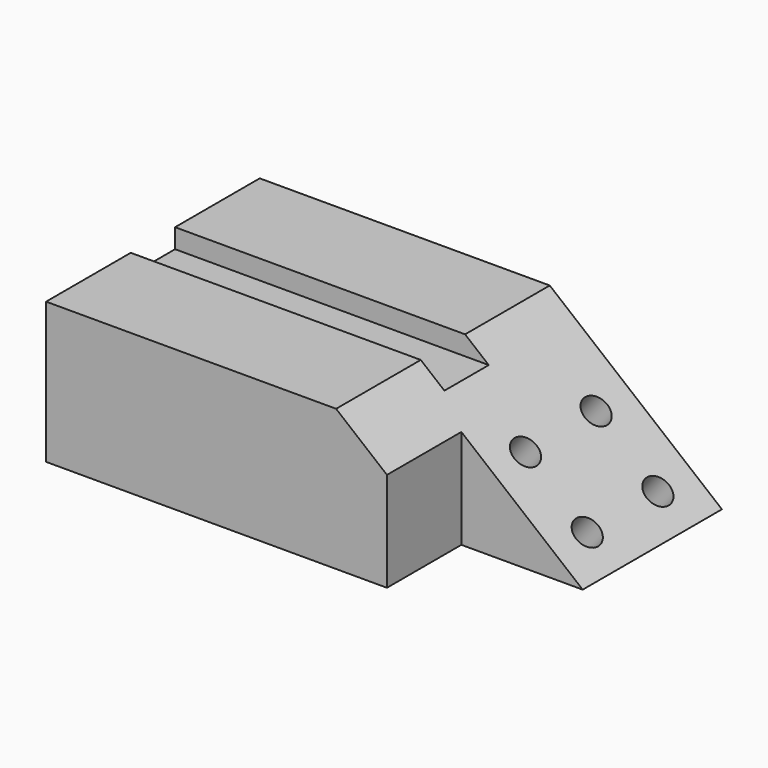
from build123d import *

# Parameters (mm, degrees)
F0_W     = 151.4763683081
F0_H     = 87.5145420432
F1_DEPTH = 46.228
F3_DEPTH = 102.87
F5_DEPTH = 30.48
F6_W     = 9.5930825919
F6_H     = 18.165897578
F6_W_2   = 95.0514208525
F7_DEPTH = 6.35
F8_R     = 4.5954023878
F9_DEPTH = 52.324


with BuildPart() as f1:
    # F0 (on Top) → F1 (new body)
    with BuildSketch(Plane.XY):
        Rectangle(F0_W, F0_H)
    extrude(amount=F1_DEPTH)

    # F2 (on face) → F3 (cut)
    with BuildSketch(Plane.XZ.offset(43.7572710216)):
        Polygon((75.738184154, 46.228), (19.3132366985, 46.228), (75.738184154, 0), align=None)
    extrude(amount=-F3_DEPTH, mode=Mode.SUBTRACT)

    # F4 (on face) → F5 (cut)
    with BuildSketch(Plane.XZ.offset(43.7572710216)):
        Polygon((75.738184154, 0), (35.9745252221, 32.5776896214), (35.9745252221, 0), align=None)
    extrude(amount=-F5_DEPTH, mode=Mode.SUBTRACT)

    # F6 (on face) → F7 (cut)
    with BuildSketch(Plane.XY.offset(46.228)):
        with Locations((24.1097779945, 0)):
            Rectangle(F6_W, F6_H)
        with Locations((-28.2124737278, 0)):
            Rectangle(F6_W_2, F6_H)
    extrude(amount=-F7_DEPTH, mode=Mode.SUBTRACT)

    # F8 (on face) → F9 (cut)
    with BuildSketch(Plane(origin=(30.4192109251, 0, 37.1290641622), x_dir=(0.7735396624, 0, -0.6337478921), z_dir=(0.6337478921, 0, 0.7735396624))):
        with Locations((20.0625781017, 0.542650738)):
            Circle(F8_R)
        with Locations((20.032882325, 29.4986355108)):
            Circle(F8_R)
        with Locations((46.194882325, 29.4986355108)):
            Circle(F8_R)
        with Locations((46.2245781017, 0.542650738)):
            Circle(F8_R)
    extrude(amount=-F9_DEPTH, mode=Mode.SUBTRACT)


solid = f1.part
